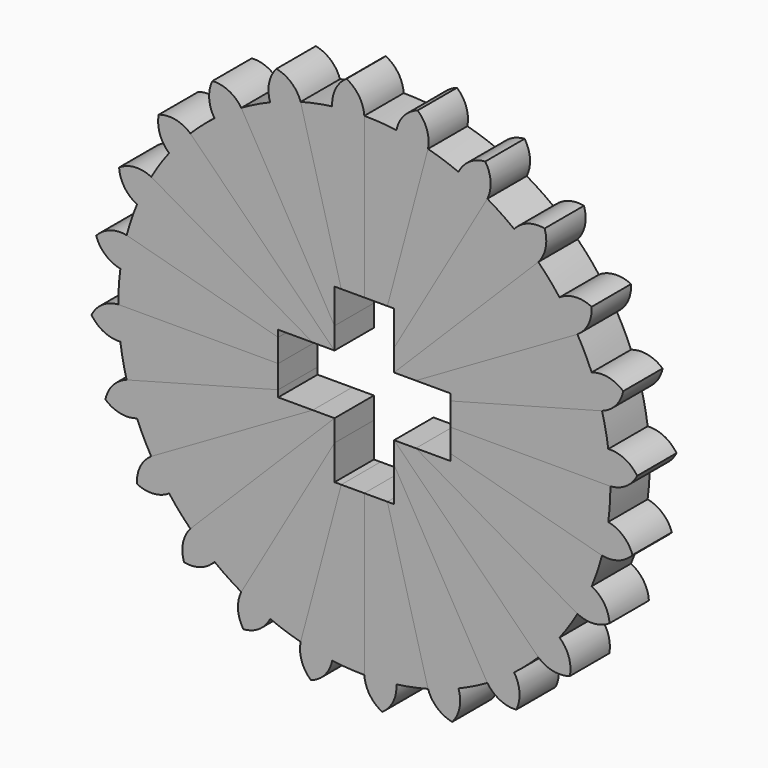
from build123d import *

# Parameters (mm, degrees)
F1_DEPTH = 7.62
F2_COUNT = 24
F2_ANGLE = 345
F3_W     = 8.7249
F3_H     = 9.2202
F3_W_2   = 9.2202
F3_H_2   = 8.7249
F4_DEPTH = 25.4


with BuildPart() as f1:
    # F0 (on Front) → F1 (new body)
    with BuildSketch(Plane.XZ):
        with BuildLine():
            ThreePointArc((37.7740492183, 4.9730479236), (38.0184249754, 2.4918592237), (38.1, 0))
            ThreePointArc((38.1, 0), (40.5428548374, 0.8292374784), (42.2438104452, 2.7688056191))
            ThreePointArc((42.2438104452, 2.7688056191), (40.3042423045, 4.4697612269), (37.7740492183, 4.9730479236))
        make_face()
        with BuildLine():
            Line((36.8017739816, 9.8610056184), (0, 0))
            Line((0, 0), (38.1, 0))
            ThreePointArc((38.1, 0), (38.0184249754, 2.4918592237), (37.7740492183, 4.9730479236))
            ThreePointArc((37.7740492183, 4.9730479236), (37.3679191834, 7.4329412688), (36.8017739816, 9.8610056184))
        make_face()
    extrude(amount=F1_DEPTH)


with BuildPart() as f2_1:
    # F2: instance of F1
    add(f1.part.rotate(Axis((0, -3.81, 0), (0, 1, 0)), 1 * F2_ANGLE / (F2_COUNT - 1)))


with BuildPart() as f2_2:
    # F2: instance of F1
    add(f1.part.rotate(Axis((0, -3.81, 0), (0, 1, 0)), 2 * F2_ANGLE / (F2_COUNT - 1)))


with BuildPart() as f2_3:
    # F2: instance of F1
    add(f1.part.rotate(Axis((0, -3.81, 0), (0, 1, 0)), 3 * F2_ANGLE / (F2_COUNT - 1)))


with BuildPart() as f2_4:
    # F2: instance of F1
    add(f1.part.rotate(Axis((0, -3.81, 0), (0, 1, 0)), 4 * F2_ANGLE / (F2_COUNT - 1)))


with BuildPart() as f2_5:
    # F2: instance of F1
    add(f1.part.rotate(Axis((0, -3.81, 0), (0, 1, 0)), 5 * F2_ANGLE / (F2_COUNT - 1)))


with BuildPart() as f2_6:
    # F2: instance of F1
    add(f1.part.rotate(Axis((0, -3.81, 0), (0, 1, 0)), 6 * F2_ANGLE / (F2_COUNT - 1)))


with BuildPart() as f2_7:
    # F2: instance of F1
    add(f1.part.rotate(Axis((0, -3.81, 0), (0, 1, 0)), 7 * F2_ANGLE / (F2_COUNT - 1)))


with BuildPart() as f2_8:
    # F2: instance of F1
    add(f1.part.rotate(Axis((0, -3.81, 0), (0, 1, 0)), 8 * F2_ANGLE / (F2_COUNT - 1)))


with BuildPart() as f2_9:
    # F2: instance of F1
    add(f1.part.rotate(Axis((0, -3.81, 0), (0, 1, 0)), 9 * F2_ANGLE / (F2_COUNT - 1)))


with BuildPart() as f2_10:
    # F2: instance of F1
    add(f1.part.rotate(Axis((0, -3.81, 0), (0, 1, 0)), 10 * F2_ANGLE / (F2_COUNT - 1)))


with BuildPart() as f2_11:
    # F2: instance of F1
    add(f1.part.rotate(Axis((0, -3.81, 0), (0, 1, 0)), 11 * F2_ANGLE / (F2_COUNT - 1)))


with BuildPart() as f2_12:
    # F2: instance of F1
    add(f1.part.rotate(Axis((0, -3.81, 0), (0, 1, 0)), 12 * F2_ANGLE / (F2_COUNT - 1)))


with BuildPart() as f2_13:
    # F2: instance of F1
    add(f1.part.rotate(Axis((0, -3.81, 0), (0, 1, 0)), 13 * F2_ANGLE / (F2_COUNT - 1)))


with BuildPart() as f2_14:
    # F2: instance of F1
    add(f1.part.rotate(Axis((0, -3.81, 0), (0, 1, 0)), 14 * F2_ANGLE / (F2_COUNT - 1)))


with BuildPart() as f2_15:
    # F2: instance of F1
    add(f1.part.rotate(Axis((0, -3.81, 0), (0, 1, 0)), 15 * F2_ANGLE / (F2_COUNT - 1)))


with BuildPart() as f2_16:
    # F2: instance of F1
    add(f1.part.rotate(Axis((0, -3.81, 0), (0, 1, 0)), 16 * F2_ANGLE / (F2_COUNT - 1)))


with BuildPart() as f2_17:
    # F2: instance of F1
    add(f1.part.rotate(Axis((0, -3.81, 0), (0, 1, 0)), 17 * F2_ANGLE / (F2_COUNT - 1)))


with BuildPart() as f2_18:
    # F2: instance of F1
    add(f1.part.rotate(Axis((0, -3.81, 0), (0, 1, 0)), 18 * F2_ANGLE / (F2_COUNT - 1)))


with BuildPart() as f2_19:
    # F2: instance of F1
    add(f1.part.rotate(Axis((0, -3.81, 0), (0, 1, 0)), 19 * F2_ANGLE / (F2_COUNT - 1)))


with BuildPart() as f2_20:
    # F2: instance of F1
    add(f1.part.rotate(Axis((0, -3.81, 0), (0, 1, 0)), 20 * F2_ANGLE / (F2_COUNT - 1)))


with BuildPart() as f2_21:
    # F2: instance of F1
    add(f1.part.rotate(Axis((0, -3.81, 0), (0, 1, 0)), 21 * F2_ANGLE / (F2_COUNT - 1)))


with BuildPart() as f2_22:
    # F2: instance of F1
    add(f1.part.rotate(Axis((0, -3.81, 0), (0, 1, 0)), 22 * F2_ANGLE / (F2_COUNT - 1)))


with BuildPart() as f2_23:
    # F2: instance of F1
    add(f1.part.rotate(Axis((0, -3.81, 0), (0, 1, 0)), 23 * F2_ANGLE / (F2_COUNT - 1)))


with BuildPart() as f4_tool:
    # F3 (on Front) → F4 (new body)
    with BuildSketch(Plane.XZ):
        with Locations((8.97255, 0)):
            Rectangle(F3_W, F3_H)
        Rectangle(F3_W_2, F3_H)
        with Locations((0, 8.97255)):
            Rectangle(F3_W_2, F3_H_2)
        with Locations((-8.97255, 0)):
            Rectangle(F3_W, F3_H)
        with Locations((0, -8.97255)):
            Rectangle(F3_W_2, F3_H_2)
    extrude(amount=F4_DEPTH)


with BuildPart() as f1_1:
    add(f1.part)

    # F4: cut by f4_tool
    add(f4_tool.part, mode=Mode.SUBTRACT)


with BuildPart() as f2_1_1:
    add(f2_1.part)

    # F4: cut by f4_tool
    add(f4_tool.part, mode=Mode.SUBTRACT)


with BuildPart() as f2_2_1:
    add(f2_2.part)

    # F4: cut by f4_tool
    add(f4_tool.part, mode=Mode.SUBTRACT)


with BuildPart() as f2_3_1:
    add(f2_3.part)

    # F4: cut by f4_tool
    add(f4_tool.part, mode=Mode.SUBTRACT)


with BuildPart() as f2_4_1:
    add(f2_4.part)

    # F4: cut by f4_tool
    add(f4_tool.part, mode=Mode.SUBTRACT)


with BuildPart() as f2_5_1:
    add(f2_5.part)

    # F4: cut by f4_tool
    add(f4_tool.part, mode=Mode.SUBTRACT)


with BuildPart() as f2_6_1:
    add(f2_6.part)

    # F4: cut by f4_tool
    add(f4_tool.part, mode=Mode.SUBTRACT)


with BuildPart() as f2_7_1:
    add(f2_7.part)

    # F4: cut by f4_tool
    add(f4_tool.part, mode=Mode.SUBTRACT)


with BuildPart() as f2_8_1:
    add(f2_8.part)

    # F4: cut by f4_tool
    add(f4_tool.part, mode=Mode.SUBTRACT)


with BuildPart() as f2_9_1:
    add(f2_9.part)

    # F4: cut by f4_tool
    add(f4_tool.part, mode=Mode.SUBTRACT)


with BuildPart() as f2_10_1:
    add(f2_10.part)

    # F4: cut by f4_tool
    add(f4_tool.part, mode=Mode.SUBTRACT)


with BuildPart() as f2_11_1:
    add(f2_11.part)

    # F4: cut by f4_tool
    add(f4_tool.part, mode=Mode.SUBTRACT)


with BuildPart() as f2_12_1:
    add(f2_12.part)

    # F4: cut by f4_tool
    add(f4_tool.part, mode=Mode.SUBTRACT)


with BuildPart() as f2_13_1:
    add(f2_13.part)

    # F4: cut by f4_tool
    add(f4_tool.part, mode=Mode.SUBTRACT)


with BuildPart() as f2_14_1:
    add(f2_14.part)

    # F4: cut by f4_tool
    add(f4_tool.part, mode=Mode.SUBTRACT)


with BuildPart() as f2_15_1:
    add(f2_15.part)

    # F4: cut by f4_tool
    add(f4_tool.part, mode=Mode.SUBTRACT)


with BuildPart() as f2_16_1:
    add(f2_16.part)

    # F4: cut by f4_tool
    add(f4_tool.part, mode=Mode.SUBTRACT)


with BuildPart() as f2_17_1:
    add(f2_17.part)

    # F4: cut by f4_tool
    add(f4_tool.part, mode=Mode.SUBTRACT)


with BuildPart() as f2_18_1:
    add(f2_18.part)

    # F4: cut by f4_tool
    add(f4_tool.part, mode=Mode.SUBTRACT)


with BuildPart() as f2_19_1:
    add(f2_19.part)

    # F4: cut by f4_tool
    add(f4_tool.part, mode=Mode.SUBTRACT)


with BuildPart() as f2_20_1:
    add(f2_20.part)

    # F4: cut by f4_tool
    add(f4_tool.part, mode=Mode.SUBTRACT)


with BuildPart() as f2_21_1:
    add(f2_21.part)

    # F4: cut by f4_tool
    add(f4_tool.part, mode=Mode.SUBTRACT)


with BuildPart() as f2_22_1:
    add(f2_22.part)

    # F4: cut by f4_tool
    add(f4_tool.part, mode=Mode.SUBTRACT)


with BuildPart() as f2_23_1:
    add(f2_23.part)

    # F4: cut by f4_tool
    add(f4_tool.part, mode=Mode.SUBTRACT)


solid = Compound([f1_1.part, f2_1_1.part, f2_2_1.part, f2_3_1.part, f2_4_1.part, f2_5_1.part, f2_6_1.part, f2_7_1.part, f2_8_1.part, f2_9_1.part, f2_10_1.part, f2_11_1.part, f2_12_1.part, f2_13_1.part, f2_14_1.part, f2_15_1.part, f2_16_1.part, f2_17_1.part, f2_18_1.part, f2_19_1.part, f2_20_1.part, f2_21_1.part, f2_22_1.part, f2_23_1.part])
